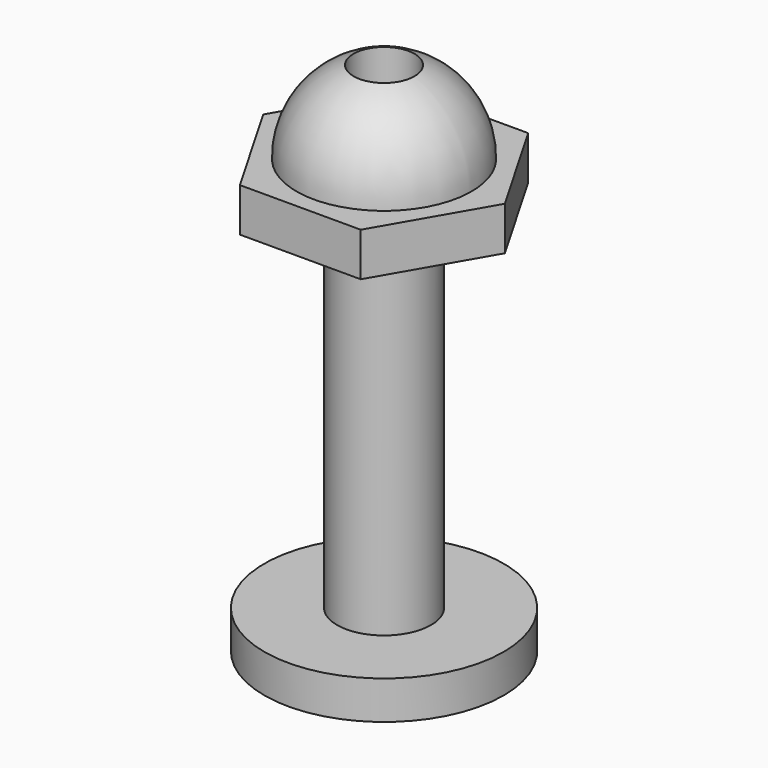
from build123d import *

# Parameters (mm, degrees)
F2_R      = 40.441348
F3_DEPTH  = 340.36
F5_DEPTH  = 37.592
F6_R      = 26.241786
F7_DEPTH  = 332.232
F8_DEPTH  = 170.434
F9_R      = 103.090547
F9_R_2    = 40.441348
F10_DEPTH = 33.02


with BuildPart() as f1:
    # F0 (on Right) → F1 (revolve)
    with BuildSketch(Plane.YZ):
        with BuildLine():
            Line((0, 75.929344), (0, -73.889017))
            ThreePointArc((0, -73.889017), (75.443219, 1.020163), (0, 75.929344))
        make_face()
    revolve(axis=Axis((0, 0, 1.020163), (0, 0, -1)))

    # F2 (on Top) → F3 (join)
    with BuildSketch(Plane.XY):
        Circle(F2_R)
    extrude(amount=-F3_DEPTH)

    # F4 (on Top) → F5 (join)
    with BuildSketch(Plane.XY):
        Polygon((52.060962, 90.172231), (-52.060962, 90.172231), (-104.121924, 0), (-52.060962, -90.172231), (52.060962, -90.172231), (104.121924, 0), align=None)
    extrude(amount=-F5_DEPTH)

    # F6 (on Top) → F7 (cut)
    with BuildSketch(Plane.XY):
        Circle(F6_R)
    extrude(amount=-F7_DEPTH, mode=Mode.SUBTRACT)

    # F6 (on Top) → F8 (cut)
    with BuildSketch(Plane.XY):
        Circle(F6_R)
    extrude(amount=F8_DEPTH, mode=Mode.SUBTRACT)


with BuildPart() as f10:
    # F9 (on face) → F10 (new body)
    with BuildSketch(Plane(origin=(0, 0, -340.36), x_dir=(1, 0, 0), z_dir=(0, 0, -1))):
        Circle(F9_R)
        Circle(F9_R_2, mode=Mode.SUBTRACT)
    extrude(amount=F10_DEPTH)


solid = Compound([f1.part, f10.part])
